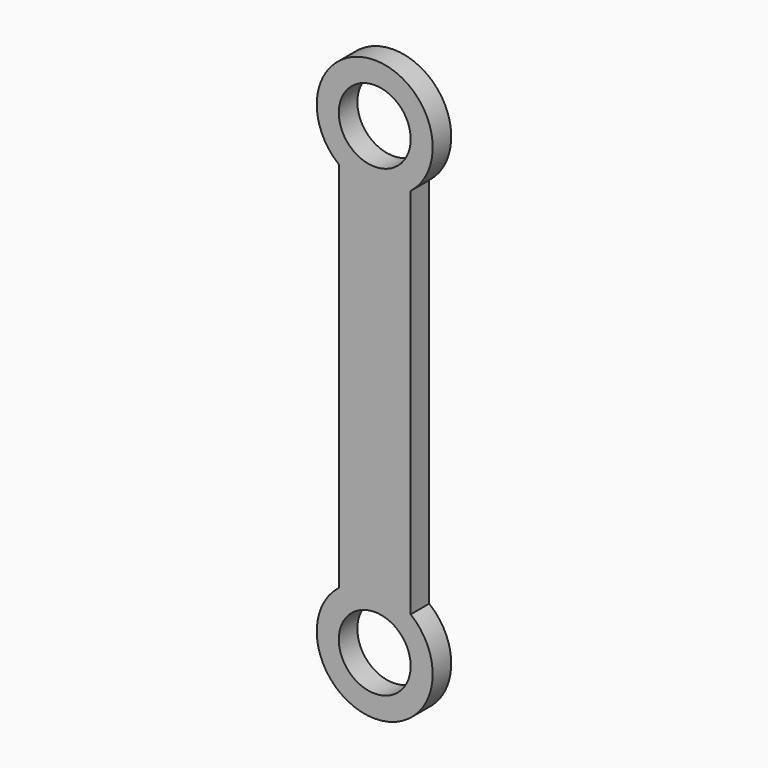
from build123d import *

# Parameters (mm, degrees)
F0_R          = 1.55
F1_DEPTH      = 4.5
F2_W          = 2.5
F2_H          = 6.339147
F3_DEPTH      = 4.051
F3_DEPTH_BACK = 0.951
F4_W          = 15.761445
F4_H          = 34.727139
F4_R          = 1.55
F5_DEPTH      = 3.5


with BuildPart() as f1:
    # F0 (on Front) → F1 (new body)
    with BuildSketch(Plane.XZ):
        with BuildLine():
            Line((14.506739, 11.988214), (14.506739, 28.065205))
            ThreePointArc((14.506739, 28.065205), (12.956739, 32.52671), (11.406739, 28.065205))
            Line((11.406739, 28.065205), (11.406739, 11.988214))
            ThreePointArc((11.406739, 11.988214), (12.956739, 7.52671), (14.506739, 11.988214))
        make_face()
        with Locations((12.956739, 10.02671)):
            Circle(F0_R, mode=Mode.SUBTRACT)
        with Locations((12.956739, 30.02671)):
            Circle(F0_R, mode=Mode.SUBTRACT)
    extrude(amount=F1_DEPTH)

    # F2 (on face) → F3 (cut, two sides)
    with BuildSketch(Plane.YZ.offset(14.506739)) as f3_sk:
        with Locations((-2.25, 30.034779)):
            Rectangle(F2_W, F2_H)
    extrude(amount=-F3_DEPTH, mode=Mode.SUBTRACT)
    extrude(f3_sk.sketch, amount=-F3_DEPTH_BACK, mode=Mode.SUBTRACT)

    # F4 (on face) → F5 (cut)
    with BuildSketch(Plane.XZ.offset(4.5)):
        with Locations((14.291149, 18.705026)):
            Rectangle(F4_W, F4_H)
        with BuildLine():
            ThreePointArc((14.506739, 11.988214), (12.956739, 7.52671), (11.406739, 11.988214))
            Line((11.406739, 11.988214), (11.406739, 28.065205))
            ThreePointArc((11.406739, 28.065205), (12.956739, 32.52671), (14.506739, 28.065205))
            Line((14.506739, 28.065205), (14.506739, 11.988214))
        make_face(mode=Mode.SUBTRACT)
        with BuildLine():
            Line((11.406739, 28.065205), (11.406739, 11.988214))
            ThreePointArc((11.406739, 11.988214), (12.956739, 7.52671), (14.506739, 11.988214))
            Line((14.506739, 11.988214), (14.506739, 28.065205))
            ThreePointArc((14.506739, 28.065205), (12.956739, 32.52671), (11.406739, 28.065205))
        make_face()
        with Locations((12.956739, 10.02671)):
            Circle(F4_R, mode=Mode.SUBTRACT)
        with Locations((12.956739, 30.02671)):
            Circle(F4_R, mode=Mode.SUBTRACT)
    extrude(amount=-F5_DEPTH, mode=Mode.SUBTRACT)


solid = f1.part
